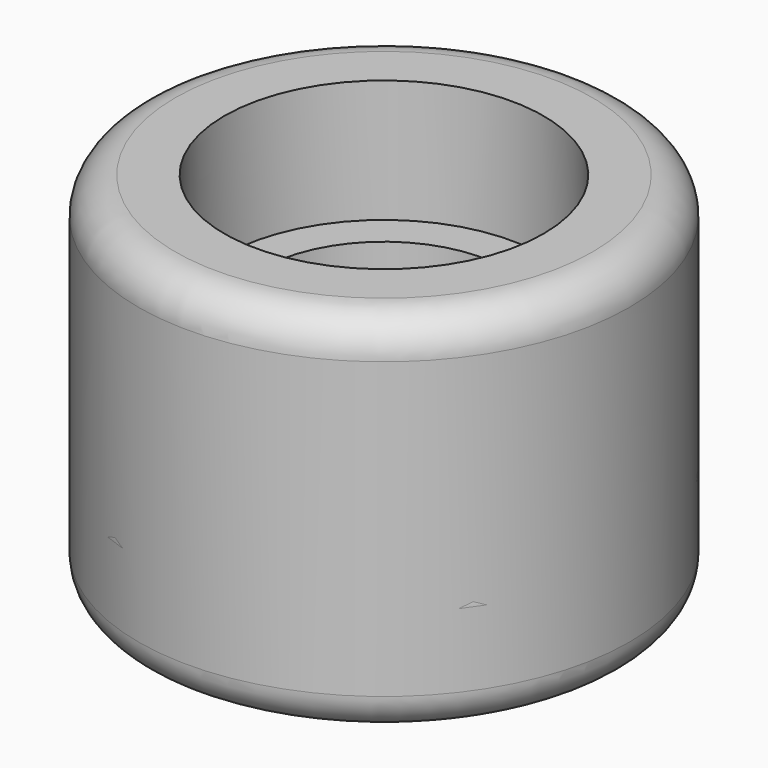
from build123d import *

# Parameters (mm, degrees)
SKETCH_R        = 20
PAD_DEPTH       = 12
SKETCH001_R     = 13
POCKET_DEPTH    = 10
FILLET001_R     = 3
SKETCH002_R     = 20
PAD001_DEPTH    = 30
SKETCH003_R     = 13
POCKET001_DEPTH = 10
SKETCH004_R     = 10
POCKET002_DEPTH = 20
FILLET_R        = 3


with BuildPart() as seat_bottom:
    # Sketch → Pad (new body)
    with BuildSketch(Plane.XY):
        Circle(SKETCH_R)
    extrude(amount=PAD_DEPTH)

    # Sketch001 → Pocket (cut)
    with BuildSketch(Plane.XY.offset(12)):
        Circle(SKETCH001_R)
    extrude(amount=-POCKET_DEPTH, mode=Mode.SUBTRACT)

    # Fillet001
    fillet001_edges = [seat_bottom.edges().sort_by_distance(p)[0] for p in [
        (20, 0, 6),
        (-20, 0, 0),
        (-20, 0, 12),
    ]]
    fillet(fillet001_edges, radius=FILLET001_R)


with BuildPart() as seat_top:
    # Sketch002 → Pad001 (new body)
    with BuildSketch(Plane.XY):
        Circle(SKETCH002_R)
    extrude(amount=PAD001_DEPTH)

    # Sketch003 → Pocket001 (cut)
    with BuildSketch(Plane.XY.offset(30)):
        Circle(SKETCH003_R)
    extrude(amount=-POCKET001_DEPTH, mode=Mode.SUBTRACT)

    # Sketch004 → Pocket002 (cut)
    with BuildSketch(Plane.XY):
        Circle(SKETCH004_R)
    extrude(amount=POCKET002_DEPTH, mode=Mode.SUBTRACT)

    # Fillet
    fillet_edges = [seat_top.edges().sort_by_distance(p)[0] for p in [
        (20, 0, 15),
        (-20, 0, 0),
        (-20, 0, 30),
    ]]
    fillet(fillet_edges, radius=FILLET_R)


solid = Compound([seat_bottom.part, seat_top.part])
